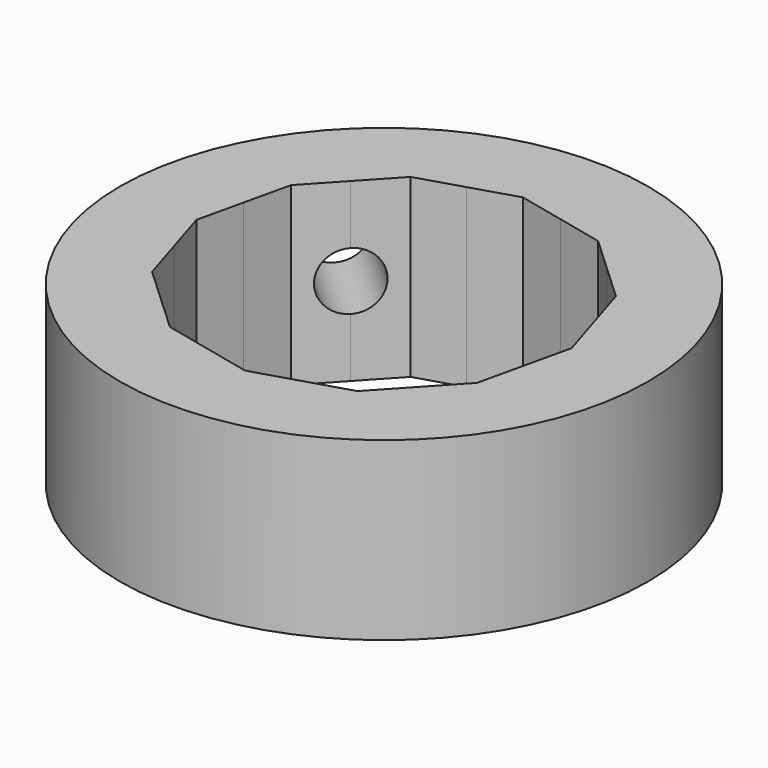
from build123d import *

# Parameters (mm, degrees)
F0_R     = 30
F1_DEPTH = 20
F3_D     = 6.6
F3_DEPTH = 20
F3_TIP   = 1.9828400428


with BuildPart() as f1:
    # F0 (on Top) → F1 (new body)
    with BuildSketch(Plane.XY):
        Circle(F0_R)
        Polygon((17.5324269332, 11.015112969), (19.1117552211, 5.8941337251), (20.6910835987, 0.7731541901), (19.4983323191, -4.4514084034), (18.3055811234, -9.6759706297), (14.6603470745, -13.6041987509), (11.015112969, -17.5324269332), (5.8941334188, -19.1117553155), (0.7731541901, -20.6910835987), (-4.4514085974, -19.4983322748), (-9.6759706297, -18.3055811234), (-13.6041987509, -14.6603470745), (-17.5324269332, -11.015112969), (-19.1117552211, -5.8941337251), (-20.6910835987, -0.7731541901), (-19.4983323191, 4.4514084034), (-18.3055811234, 9.6759706297), (-14.6603472228, 13.6041985911), (-11.015112969, 17.5324269332), (-5.8941334188, 19.1117553155), (-0.7731541901, 20.6910835987), (4.4514080895, 19.4983323908), (9.6759706297, 18.3055811234), (13.6041987509, 14.6603470745), align=None, mode=Mode.SUBTRACT)
    extrude(amount=F1_DEPTH)

    # F3 (one way)
    with BuildSketch(Plane(origin=(-14.6603470462, 13.6041987814, 0), x_dir=(0.6802099391, 0.7330173523, 0), z_dir=(0.7330173523, -0.6802099391, 0))):
        with Locations((0, 10)):
            Circle(F3_D / 2)
    extrude(amount=-F3_DEPTH, mode=Mode.SUBTRACT)
    with Locations(Plane(origin=(-14.6603470462, 13.6041987814, 0), x_dir=(0.6802099391, 0.7330173523, 0), z_dir=(0.7330173523, -0.6802099391, 0))):
        with Locations((0, 10)):
            with Locations((0, 0, -(F3_DEPTH + F3_TIP / 2))):  # 118° drill point
                Cone(0, F3_D / 2, F3_TIP, mode=Mode.SUBTRACT)


solid = f1.part
